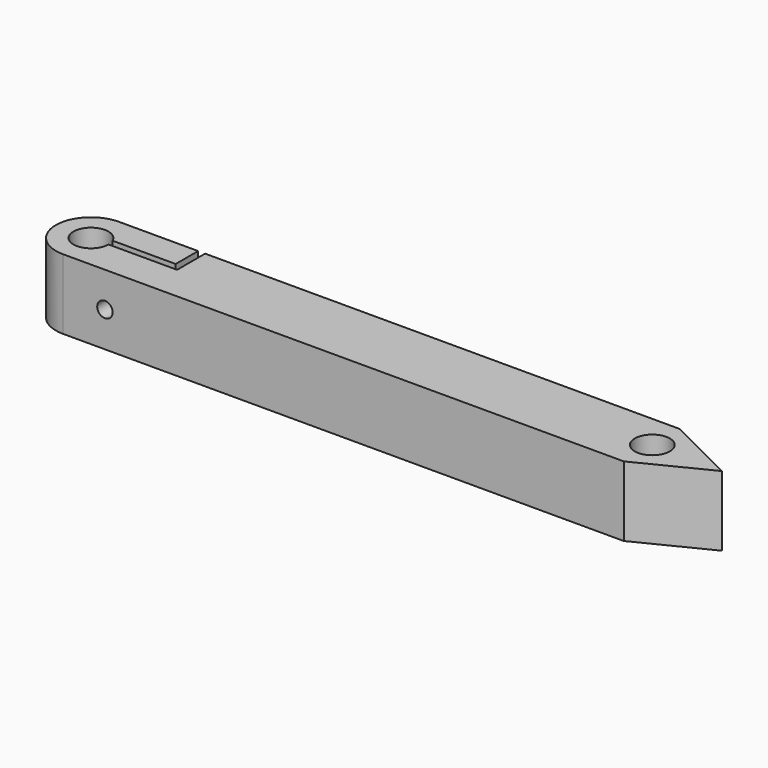
from build123d import *

# Parameters (mm, degrees)
SKETCH001_R      = 2.5
PAD_DEPTH        = 10
HOLE_D           = 2.2
HOLE_DEPTH       = 25
HOLE_CBORE_D     = 4
HOLE_CBORE_DEPTH = 1.2


with BuildPart() as part:
    # Sketch001 → Pad (new body)
    with BuildSketch(Plane.XY):
        with BuildLine():
            Line((0, 0), (80, 0))
            Line((80, 0), (90, 5))
            Line((90, 5), (80, 10))
            Line((80, 10), (12.291288, 10))
            Line((12.291288, 5), (12.291288, 10))
            Line((2.5, 5), (12.291288, 5))
            ThreePointArc((2.291288, 6), (-2.447266, 4.489226), (2.5, 5))
            Line((11.291288, 6), (2.291288, 6))
            Line((11.291288, 10), (11.291288, 6))
            Line((0, 10), (11.291288, 10))
            ThreePointArc((0, 10), (-5, 5), (0, 0))
        make_face()
        with Locations((80, 5.087405)):
            Circle(SKETCH001_R, mode=Mode.SUBTRACT)
    extrude(amount=PAD_DEPTH)

    # Hole
    with Locations(Plane(origin=(0, 10, 0), x_dir=(-1, 0, 0), z_dir=(0, 1, 0))):
        with Locations((-6, 5)):
            CounterBoreHole(HOLE_D / 2, HOLE_CBORE_D / 2, HOLE_CBORE_DEPTH, depth=HOLE_DEPTH)


solid = part.part
